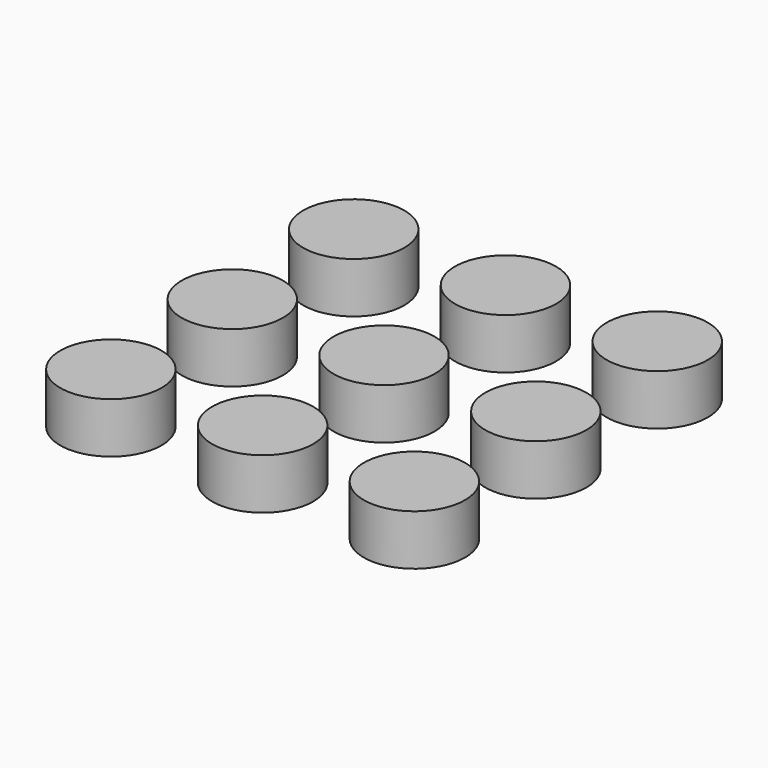
from build123d import *

# Parameters (mm, degrees)
F0_R     = 10
F1_DEPTH = 10


with BuildPart() as f1:
    # F0 (on Top) → F1 (new body)
    with BuildSketch(Plane.XY):
        with Locations((-30, -30)):
            Circle(F0_R)
        with Locations((-30, 0)):
            Circle(F0_R)
        with Locations((-30, 30)):
            Circle(F0_R)
        with Locations((0, -30)):
            Circle(F0_R)
        Circle(F0_R)
        with Locations((0, 30)):
            Circle(F0_R)
        with Locations((30, 30)):
            Circle(F0_R)
        with Locations((30, 0)):
            Circle(F0_R)
        with Locations((30, -30)):
            Circle(F0_R)
    extrude(amount=F1_DEPTH)


solid = f1.part
